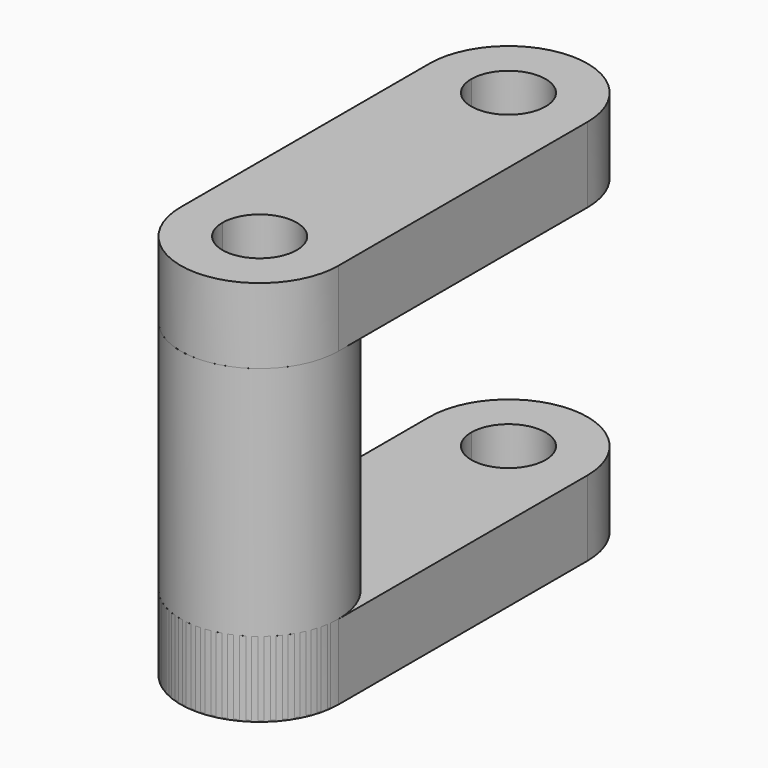
from build123d import *

# Parameters (mm, degrees)
F1_DEPTH = 15.24
F3_R     = 16.001999
F3_R_2   = 7.800606
F4_DEPTH = 62.738


with BuildPart() as f1:
    # F0 (on Top) → F1 (new body)
    with BuildSketch(Plane.XY):
        with BuildLine():
            Line((16.001999, 31.491935), (7.527139, 31.491935))
            ThreePointArc((7.527139, 31.491935), (0, 23.964797), (-7.527139, 31.491935))
            Line((-7.527139, 31.491935), (-16.001999, 31.491935))
            ThreePointArc((-16.001999, 31.491935), (0, 15.489936), (16.001999, 31.491935))
        make_face()
        with BuildLine():
            ThreePointArc((-7.527139, 31.491935), (0, 39.019074), (7.527139, 31.491935))
            Line((7.527139, 31.491935), (16.001999, 31.491935))
            ThreePointArc((16.001999, 31.491935), (0, 47.493935), (-16.001999, 31.491935))
            Line((-16.001999, 31.491935), (-7.527139, 31.491935))
        make_face()
        with BuildLine():
            Line((16.001999, -31.491935), (16.001999, 31.491935))
            ThreePointArc((16.001999, 31.491935), (0, 15.489936), (-16.001999, 31.491935))
            Line((-16.001999, 31.491935), (-16.001999, -31.491935))
            ThreePointArc((-16.001999, -31.491935), (0, -15.489936), (16.001999, -31.491935))
        make_face()
        with BuildLine():
            Line((7.527139, -31.491935), (16.001999, -31.491935))
            ThreePointArc((16.001999, -31.491935), (0, -15.489936), (-16.001999, -31.491935))
            Line((-16.001999, -31.491935), (-7.527139, -31.491935))
            ThreePointArc((-7.527139, -31.491935), (0, -23.964797), (7.527139, -31.491935))
        make_face()
        with BuildLine():
            ThreePointArc((-16.001999, -31.491935), (0, -47.493935), (16.001999, -31.491935))
            Line((16.001999, -31.491935), (7.527139, -31.491935))
            ThreePointArc((7.527139, -31.491935), (0, -39.019074), (-7.527139, -31.491935))
            Line((-7.527139, -31.491935), (-16.001999, -31.491935))
        make_face()
    extrude(amount=F1_DEPTH)


with BuildPart() as f2_1:
    # F2: copy of F1
    add(f1.part.moved(Location((0, 0, -62.992))))


with BuildPart() as f4:
    # F3 (on face) → F4 (new body)
    with BuildSketch(Plane(origin=(0, 0, 0), x_dir=(1, 0, 0), z_dir=(0, 0, -1))):
        with Locations((0, 31.491935)):
            Circle(F3_R)
        with Locations((0, 31.491935)):
            Circle(F3_R_2, mode=Mode.SUBTRACT)
    extrude(amount=F4_DEPTH)


solid = Compound([f1.part, f2_1.part, f4.part])
